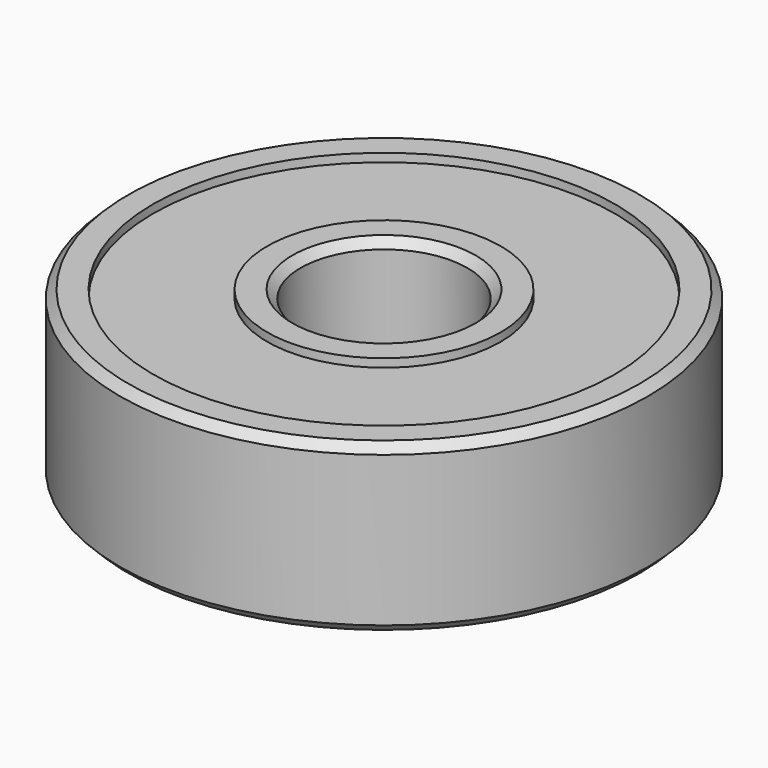
from build123d import *

# Parameters (mm, degrees)
F2_SIZE = 0.3


with BuildPart() as f1:
    # F0 (on Front) → F1 (revolve)
    with BuildSketch(Plane.XZ):
        Polygon((4.2, 3), (3, 3), (3, -3), (4.079062, -3), (4.079062, -2.7), (8.3, -2.7), (8.3, -3), (9.5, -3), (9.5, 3), (8.3, 3), (8.3, 2.7), (4.2, 2.7), align=None)
    revolve(axis=Axis((0, 0, 0), (0, 0, -1)))

    # F2
    f2_edges = [f1.edges().sort_by_distance(p)[0] for p in [
        (-9.5, 0, 3),
        (-9.5, 0, -3),
        (-3, 0, 3),
        (-3, 0, -3),
    ]]
    chamfer(f2_edges, length=F2_SIZE)


solid = f1.part
